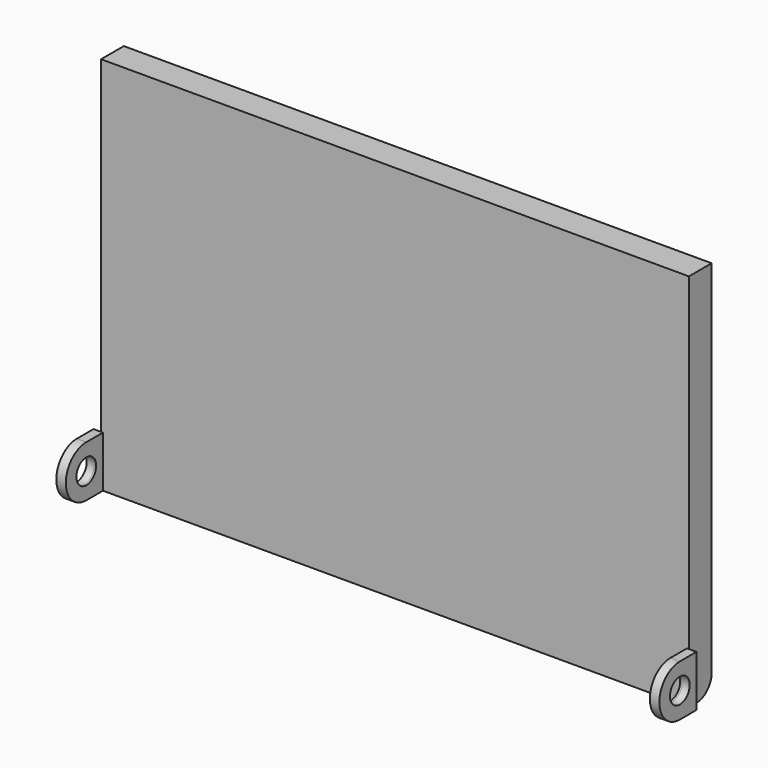
from build123d import *

# Parameters (mm, degrees)
F0_W          = 310
F0_H          = 200
F1_DEPTH      = 15
F3_R          = 10
F2_R          = 6.5
F4_DEPTH      = 4
F4_DEPTH_BACK = 1
F5_R          = 6.5
F6_DEPTH      = 4
F6_DEPTH_BACK = 1


with BuildPart() as f1:
    # F0 (on Front) → F1 (new body)
    with BuildSketch(Plane.XZ):
        Rectangle(F0_W, F0_H)
    extrude(amount=F1_DEPTH)

    # F3
    f3_edges = [f1.edges().sort_by_distance(p)[0] for p in [
        (0, 0, -100),
    ]]
    fillet(f3_edges, radius=F3_R)

    # F2 (on face) → F4 (join, two sides)
    with BuildSketch(Plane.YZ.offset(155)) as f4_sk:
        with BuildLine():
            Line((-26, -100), (-15, -100))
            Line((-15, -100), (-15, -73))
            Line((-15, -73), (-26, -73))
            ThreePointArc((-26, -73), (-39.5, -86.5), (-26, -100))
        make_face()
        with Locations((-26, -86.5)):
            Circle(F2_R, mode=Mode.SUBTRACT)
    extrude(amount=F4_DEPTH)
    extrude(f4_sk.sketch, amount=-F4_DEPTH_BACK)

    # F5 (on face) → F6 (join, two sides)
    with BuildSketch(Plane(origin=(-155, 0, 0), x_dir=(0, -1, 0), z_dir=(-1, 0, 0))) as f6_sk:
        with BuildLine():
            Line((26, -73), (15, -73))
            Line((15, -73), (15, -100))
            Line((15, -100), (26, -100))
            ThreePointArc((26, -100), (39.5, -86.5), (26, -73))
        make_face()
        with Locations((26, -86.5)):
            Circle(F5_R, mode=Mode.SUBTRACT)
    extrude(amount=F6_DEPTH)
    extrude(f6_sk.sketch, amount=-F6_DEPTH_BACK)


solid = f1.part
